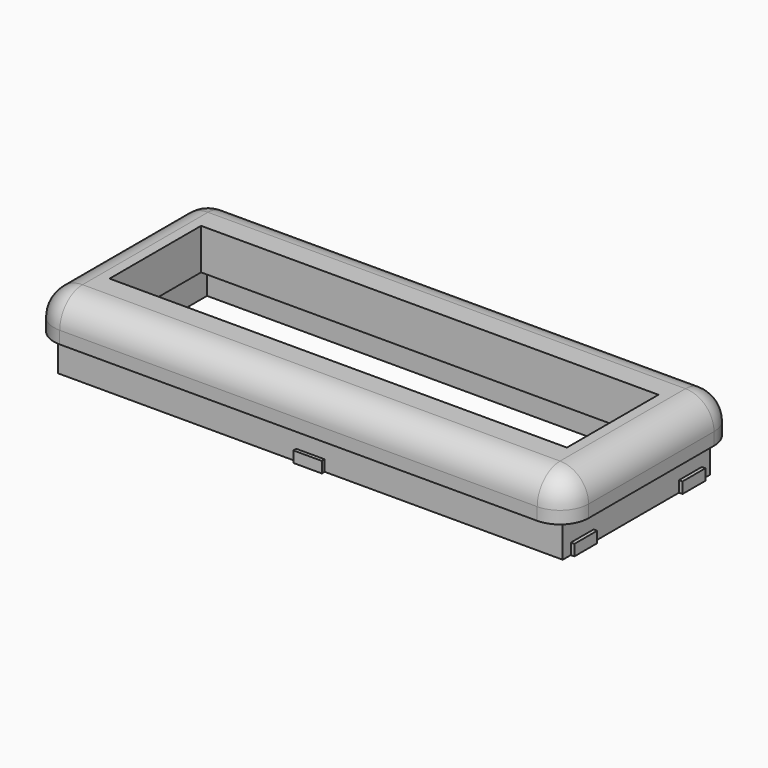
from build123d import *

# Parameters (mm, degrees)
F0_W      = 150
F0_H      = 60
F1_DEPTH  = 11.5
F2_W      = 128.35
F2_H      = 32.1
F3_DEPTH  = 11.5
F4_R      = 8
F5_W      = 141.6
F5_H      = 51.6
F5_W_2    = 136.6
F5_H_2    = 46.6
F6_DEPTH  = 10.1
F7_R      = 8
F8_W      = 1
F8_H      = 8
F8_W_2    = 4
F8_H_2    = 1
F10_DEPTH = 3.1


with BuildPart() as f1:
    # F0 (on Top) → F1 (new body)
    with BuildSketch(Plane.XY):
        Rectangle(F0_W, F0_H)
    extrude(amount=F1_DEPTH)

    # F2 (on face) → F3 (cut, through all)
    with BuildSketch(Plane.XY.offset(11.5)):
        Rectangle(F2_W, F2_H)
    extrude(amount=-F3_DEPTH, mode=Mode.SUBTRACT)

    # F4
    f4_edges = [f1.edges().sort_by_distance(p)[0] for p in [
        (-75, 30, 5.75),
        (75, 30, 5.75),
        (75, -30, 5.75),
        (-75, -30, 5.75),
    ]]
    fillet(f4_edges, radius=F4_R)

    # F5 (on face) → F6 (join)
    with BuildSketch(Plane(origin=(0, 0, 0), x_dir=(1, 0, 0), z_dir=(0, 0, -1))):
        Rectangle(F5_W, F5_H)
        Rectangle(F5_W_2, F5_H_2, mode=Mode.SUBTRACT)
    extrude(amount=F6_DEPTH)

    # F7
    f7_edges = [f1.edges().sort_by_distance(p)[0] for p in [
        (0, 30, 11.5),
    ]]
    fillet(f7_edges, radius=F7_R)

    # F8 (on face) → F10 (join, through all)
    with BuildSketch(Plane(origin=(0, 0, -10.1), x_dir=(1, 0, 0), z_dir=(0, 0, -1))):
        with Locations((-71.3, 18.978567)):
            Rectangle(F8_W, F8_H)
        with Locations((71.3, 18.978567)):
            Rectangle(F8_W, F8_H)
        with Locations((-71.3, -18.978567)):
            Rectangle(F8_W, F8_H)
        with Locations((71.3, -18.978567)):
            Rectangle(F8_W, F8_H)
        with Locations((2, 26.3)):
            Rectangle(F8_W_2, F8_H_2)
        with Locations((-2, 26.3)):
            Rectangle(F8_W_2, F8_H_2)
        with Locations((2, -26.3)):
            Rectangle(F8_W_2, F8_H_2)
        with Locations((-2, -26.3)):
            Rectangle(F8_W_2, F8_H_2)
    extrude(amount=-F10_DEPTH)


solid = f1.part
